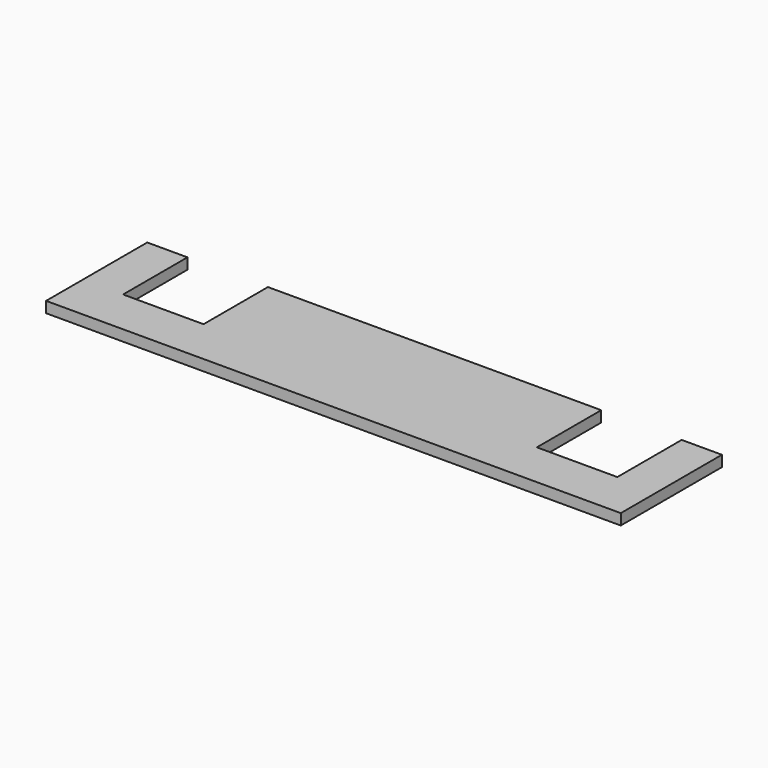
from build123d import *

# Parameters (mm, degrees)
F0_W     = 35
F0_H     = 15
F0_W_2   = 430
F1_DEPTH = 9.5


with BuildPart() as f1:
    # F0 (on Top) → F1 (new body)
    with BuildSketch(Plane.XY):
        Polygon((-32.0450477302, 88.4800112247), (-32.0450477302, -6.5199887753), (2.9549522698, -6.5199887753), (2.9549522698, 18.4800112247), (2.9549522698, 88.4800112247), align=None)
        Polygon((2.9549522698, 18.4800112247), (2.9549522698, -6.5199887753), (432.9549522698, -6.5199887753), (432.9549522698, 18.4800112247), (362.9549522698, 18.4800112247), (362.9549522698, 88.4800112247), (72.9549522698, 88.4800112247), (72.9549522698, 18.4800112247), align=None)
        Polygon((432.9549522698, 18.4800112247), (432.9549522698, -6.5199887753), (467.9549522698, -6.5199887753), (467.9549522698, 88.4800112247), (432.9549522698, 88.4800112247), align=None)
        with Locations((-14.5450477302, -14.0199887753)):
            Rectangle(F0_W, F0_H)
        with Locations((217.9549522698, -14.0199887753)):
            Rectangle(F0_W_2, F0_H)
        with Locations((450.4549522698, -14.0199887753)):
            Rectangle(F0_W, F0_H)
    extrude(amount=-F1_DEPTH)


solid = f1.part
